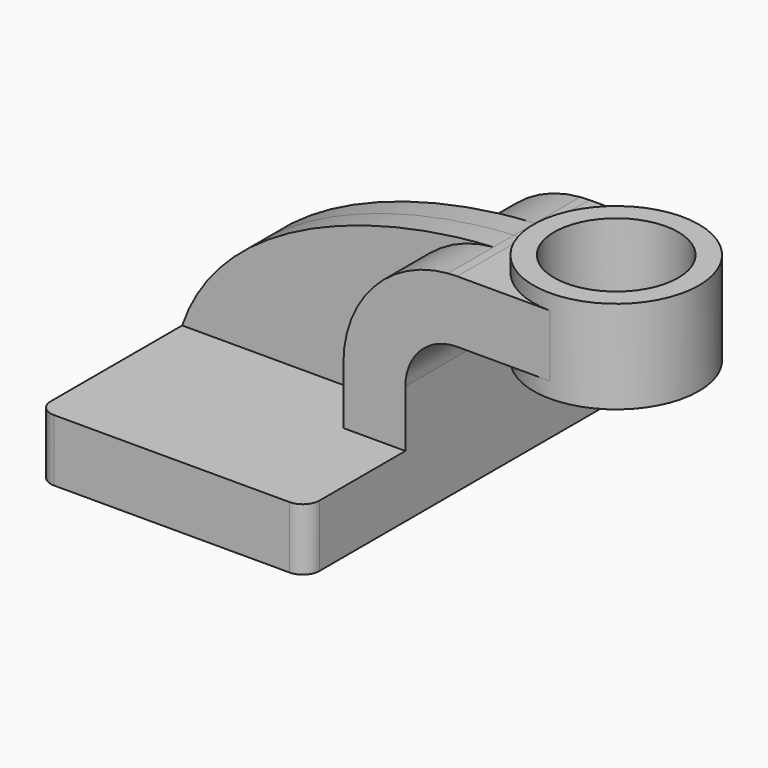
from build123d import *

# Parameters (mm, degrees)
F1_DEPTH = 63.5
F0_W     = 25.4
F0_H     = 19.05
F2_DEPTH = 25.4
F3_DEPTH = 7.9375
F4_R     = 5.08
F6_R     = 6.35
F7_DEPTH = 50.8
F8_R     = 19.05
F9_DEPTH = 25.4


with BuildPart() as f1:
    # F0 (on Front) → F1 (new body, symmetric)
    with BuildSketch(Plane.XZ):
        Polygon((-41.275, -9.525), (41.275, -9.525), (41.275, 9.525), (22.225, 9.525), (-41.275, 9.525), align=None)
    extrude(amount=F1_DEPTH, both=True)

    # F0 (on Front) → F2 (join, symmetric)
    with BuildSketch(Plane.XZ):
        with BuildLine():
            Line((22.225, 9.525), (41.275, 9.525))
            Line((41.275, 9.525), (41.275, 27.0002))
            ThreePointArc((41.275, 27.0002), (45.9246798487, 38.2255201513), (57.15, 42.8752))
            Line((57.15, 42.8752), (60.325, 42.8752))
            Line((60.325, 42.8752), (60.325, 61.9252))
            Line((60.325, 61.9252), (57.15, 61.9252))
            add(Edge.make_bspline(
                [(54.3558038177, 61.8132448639), (55.2992353906, 61.8602813509), (56.2310037171, 61.8975367589), (57.15, 61.9252)],
                knots=[108.500811641, 108.500811641, 108.500811641, 108.500811641, 111.5045361635, 111.5045361635, 111.5045361635, 111.5045361635], degree=3))
            ThreePointArc((54.3558038177, 61.8132448639), (31.4854044775, 50.6874151522), (22.225, 27.0002))
            Line((22.225, 27.0002), (22.225, 9.525))
        make_face()
        with Locations((73.025, 52.4002)):
            Rectangle(F0_W, F0_H)
    extrude(amount=F2_DEPTH, both=True)

    # F0 (on Front) → F3 (join, symmetric)
    with BuildSketch(Plane.XZ):
        with BuildLine():
            add(Edge.make_bspline(
                [(-41.275, 9.525), (-29.0199070695, 45.652726812), (20.2770823423, 60.114188583), (54.3558038177, 61.8132448639)],
                knots=[0, 0, 0, 0, 108.500811641, 108.500811641, 108.500811641, 108.500811641], degree=3))
            Line((-41.275, 9.525), (22.225, 9.525))
            Line((22.225, 9.525), (22.225, 27.0002))
            ThreePointArc((22.225, 27.0002), (31.4854044775, 50.6874151522), (54.3558038177, 61.8132448639))
        make_face()
    extrude(amount=F3_DEPTH, both=True)

    # F4
    f4_edges = [f1.edges().sort_by_distance(p)[0] for p in [
        (41.275, -63.5, 0),
        (-41.275, -63.5, 0),
        (-41.275, 63.5, 0),
        (41.275, 63.5, 0),
    ]]
    fillet(f4_edges, radius=F4_R)

    # F0 (on Front) → F5 (revolve)
    with BuildSketch(Plane.XZ):
        Polygon((85.725, 61.9252), (85.725, 42.8752), (85.725, 38.1), (111.125, 38.1), (111.125, 66.675), (85.725, 66.675), align=None)
    revolve(axis=Axis((85.725, 0, 52.3875), (0, 0, -1)))

    # F6 (on face) → F7 (cut, symmetric)
    with BuildSketch(Plane.XY.offset(9.525)):
        with Locations((29.4948853552, 51.6811832786)):
            Circle(F6_R)
    extrude(amount=F7_DEPTH, both=True, mode=Mode.SUBTRACT)

    # F8 (on face) → F9 (cut)
    with BuildSketch(Plane.XY.offset(66.675)):
        with Locations((85.725, 0)):
            Circle(F8_R)
    extrude(amount=-F9_DEPTH, mode=Mode.SUBTRACT)


solid = f1.part
